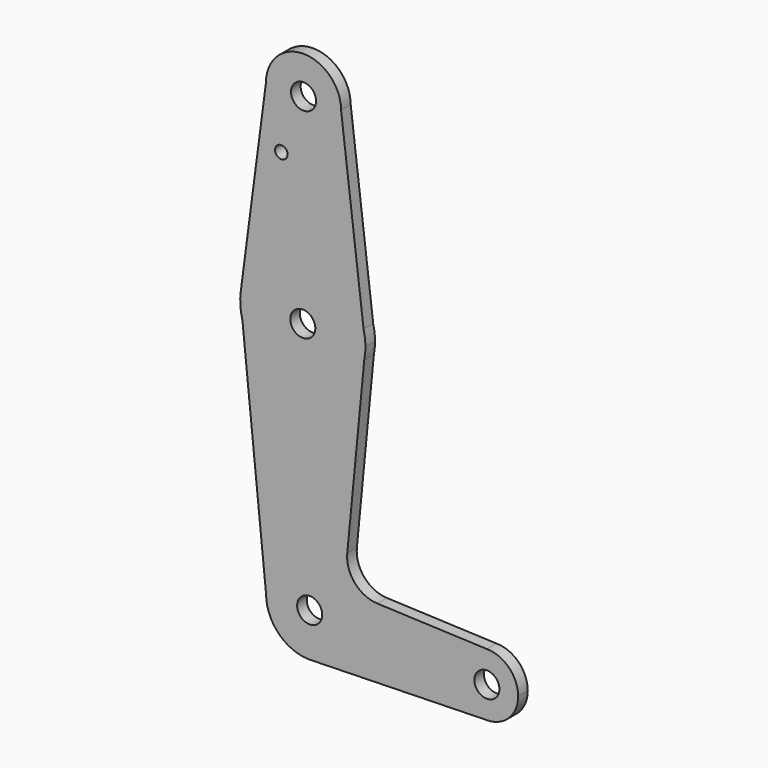
from build123d import *

# Parameters (mm, degrees)
F0_R     = 3.175
F0_R_2   = 1.5875
F1_DEPTH = 3.048


with BuildPart() as f1:
    # F0 (on Front) → F1 (new body)
    with BuildSketch(Plane.XZ):
        with BuildLine():
            ThreePointArc((32.737635, 28.991633), (42.262635, 19.466633), (51.787635, 28.991633))
            ThreePointArc((51.787635, 28.991633), (42.262635, 38.516633), (32.737635, 28.991633))
        make_face()
        with Locations((42.262635, 28.991633)):
            Circle(F0_R, mode=Mode.SUBTRACT)
        with BuildLine():
            Line((57.491022, -18.011721), (51.787635, 28.991633))
            ThreePointArc((51.787635, 28.991633), (42.262635, 19.466633), (32.737635, 28.991633))
            Line((32.737635, 28.991633), (26.336892, -19.741037))
            ThreePointArc((26.336892, -19.741037), (41.196865, -5.957767), (57.491022, -18.011721))
        make_face()
        with Locations((36.633853, 14.716833)):
            Circle(F0_R_2, mode=Mode.SUBTRACT)
        with BuildLine():
            Line((57.951707, -21.808367), (57.491022, -18.011721))
            ThreePointArc((57.491022, -18.011721), (41.196865, -5.957767), (26.336892, -19.741037))
            ThreePointArc((26.336892, -19.741037), (26.238036, -22.881748), (26.759731, -25.980404))
            ThreePointArc((26.759731, -25.980404), (42.656766, -37.672766), (57.657464, -24.850672))
            Line((57.657464, -24.850672), (57.951707, -21.808367))
        make_face()
        with Locations((42.076707, -21.808367)):
            Circle(F0_R, mode=Mode.SUBTRACT)
        with BuildLine():
            ThreePointArc((57.951707, -21.808367), (57.836115, -19.89612), (57.491022, -18.011721))
            Line((57.491022, -18.011721), (57.951707, -21.808367))
        make_face()
        with BuildLine():
            ThreePointArc((57.657464, -24.850672), (57.877975, -23.336617), (57.951707, -21.808367))
            Line((57.951707, -21.808367), (57.657464, -24.850672))
        make_face()
        with BuildLine():
            ThreePointArc((57.657464, -24.850672), (42.656766, -37.672766), (26.759731, -25.980404))
            Line((26.759731, -25.980404), (32.760889, -85.192107))
            ThreePointArc((32.760889, -85.192107), (43.81357, -74.139426), (54.866251, -85.192107))
            ThreePointArc((54.866251, -85.192107), (51.916301, -92.709253), (44.64113, -96.213762))
            Line((44.64113, -96.213762), (88.748364, -95.124242))
            ThreePointArc((88.748364, -95.124242), (80.810864, -87.186742), (88.748364, -79.249242))
            Line((88.748364, -79.249242), (60.937904, -78.11713))
            ThreePointArc((60.937904, -78.11713), (55.267768, -75.396876), (53.347999, -69.408161))
            Line((53.347999, -69.408161), (57.657464, -24.850672))
        make_face()
        with BuildLine():
            ThreePointArc((54.866251, -85.192107), (43.81357, -74.139426), (32.760889, -85.192107))
            ThreePointArc((32.760889, -85.192107), (36.296423, -93.294838), (44.64113, -96.213762))
            ThreePointArc((44.64113, -96.213762), (51.916301, -92.709253), (54.866251, -85.192107))
        make_face()
        with Locations((43.81357, -85.192107)):
            Circle(F0_R, mode=Mode.SUBTRACT)
        with BuildLine():
            ThreePointArc((88.748364, -79.249242), (80.810864, -87.186742), (88.748364, -95.124242))
            ThreePointArc((88.748364, -95.124242), (94.361024, -92.799402), (96.685864, -87.186742))
            ThreePointArc((96.685864, -87.186742), (94.361024, -81.574082), (88.748364, -79.249242))
        make_face()
        with Locations((88.748364, -87.186742)):
            Circle(F0_R, mode=Mode.SUBTRACT)
    extrude(amount=F1_DEPTH)


solid = f1.part
